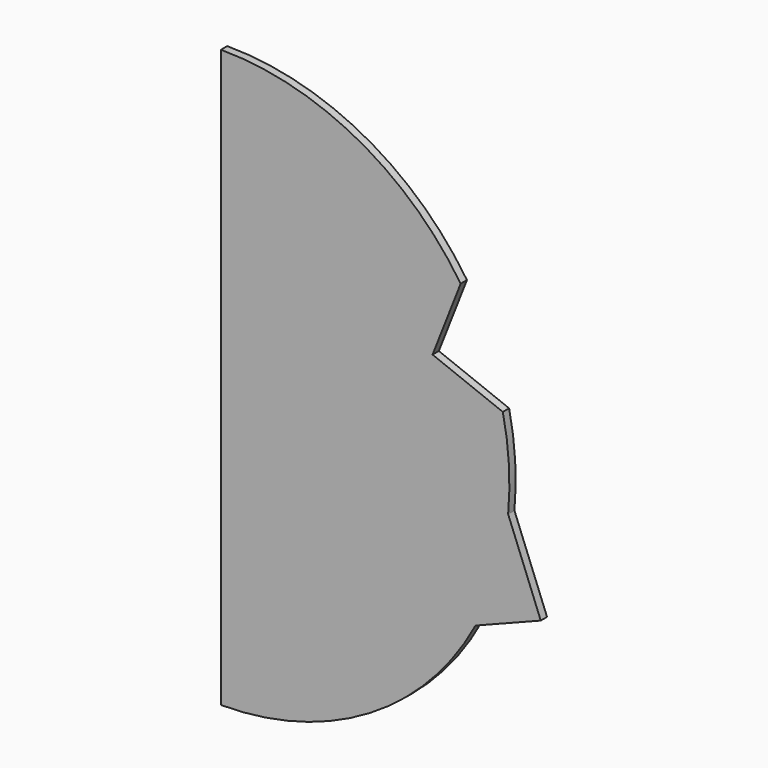
from build123d import *

# Parameters (mm, degrees)
F1_DEPTH = 3


with BuildPart() as f1:
    # F0 (on Front) → F1 (new body)
    with BuildSketch(Plane.XZ):
        with BuildLine():
            Line((0, 110), (0, -110))
            ThreePointArc((0, -110), (56.599092, -94.321486), (97.063827, -51.755323))
            Line((97.063827, -51.755323), (121.953153, -41.987608))
            Line((121.953153, -41.987608), (109.51686, -10.298421))
            ThreePointArc((109.51686, -10.298421), (109.801283, 6.608946), (107.490949, 23.360135))
            Line((107.490949, 23.360135), (80.694538, 33.874987))
            Line((80.694538, 33.874987), (91.411813, 61.187258))
            ThreePointArc((91.411813, 61.187258), (51.814099, 97.032465), (0, 110))
        make_face()
    extrude(amount=F1_DEPTH)


solid = f1.part
